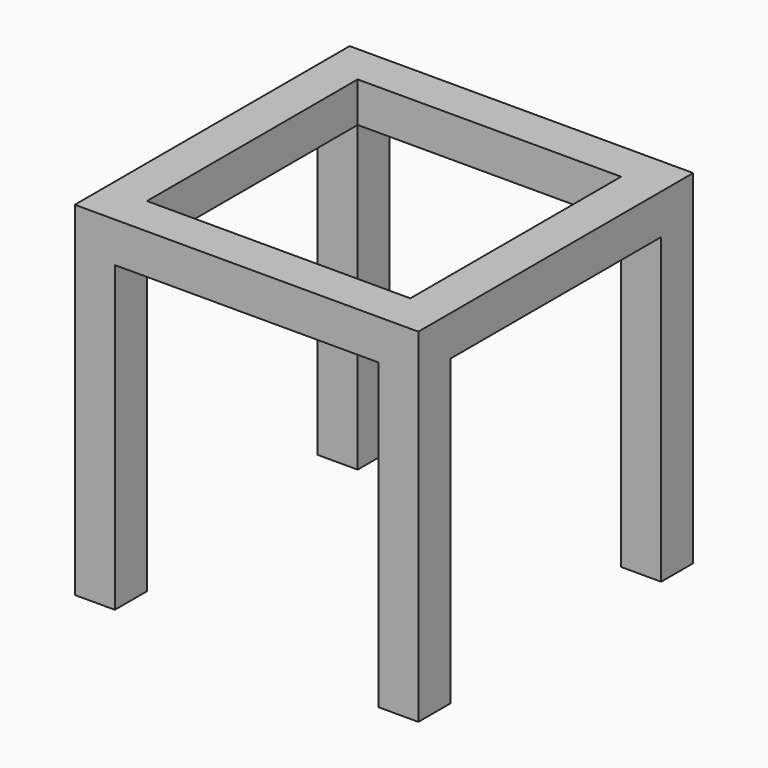
from build123d import *

# Parameters (mm, degrees)
F0_W     = 76.2
F0_H     = 76.2
F1_DEPTH = 76.2
F2_W     = 58.42
F2_H     = 58.42
F3_DEPTH = 76.2
F4_W     = 58.42
F4_H     = 67.31
F5_DEPTH = 76.2
F6_W     = 58.42
F6_H     = 134.62
F7_DEPTH = 76.2


with BuildPart() as f1:
    # F0 (on Top) → F1 (new body)
    with BuildSketch(Plane.XY):
        with Locations((38.1, -38.1)):
            Rectangle(F0_W, F0_H)
    extrude(amount=F1_DEPTH)

    # F2 (on face) → F3 (cut)
    with BuildSketch(Plane.XY.offset(76.2)):
        with Locations((38.1, -38.1)):
            Rectangle(F2_W, F2_H)
    extrude(amount=-F3_DEPTH, mode=Mode.SUBTRACT)

    # F4 (on face) → F5 (cut)
    with BuildSketch(Plane.YZ.offset(76.2)):
        with Locations((-38.1, 33.655)):
            Rectangle(F4_W, F4_H)
    extrude(amount=-F5_DEPTH, mode=Mode.SUBTRACT)

    # F6 (on face) → F7 (cut)
    with BuildSketch(Plane.XZ.offset(76.2)):
        with Locations((38.1, 0)):
            Rectangle(F6_W, F6_H)
    extrude(amount=-F7_DEPTH, mode=Mode.SUBTRACT)


solid = f1.part
